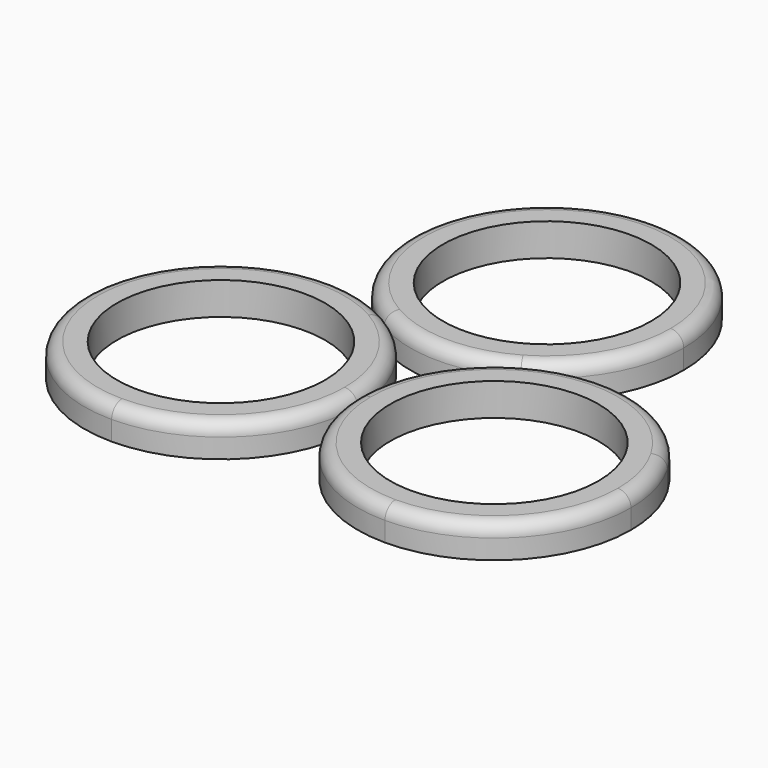
from build123d import *

# Parameters (mm, degrees)
F0_R     = 16
F1_DEPTH = 5
F2_R     = 2
F2_2_R   = 2
F2_3_R   = 2


with BuildPart() as f1:
    # F0 (on Top) → F1 (new body)
    with BuildSketch(Plane.XY):
        with BuildLine():
            ThreePointArc((-42.0000000626, -21), (-27.1507576172, -14.849242427), (-21, 0))
            ThreePointArc((-21, 0), (-23.8134663476, 10.4999997004), (-31.4999994009, 18.1865331336))
            ThreePointArc((-31.4999994009, 18.1865331336), (-47.4351994623, 20.284442482), (-60.1865333234, 10.5000002703))
            ThreePointArc((-60.1865333234, 10.5000002703), (-60.1865335731, -10.4999998378), (-42.0000000626, -21))
        make_face()
        with Locations((-42, 0)):
            Circle(F0_R, mode=Mode.SUBTRACT)
    extrude(amount=F1_DEPTH)

    # F2
    f2_edges = [f1.edges().sort_by_distance(p)[0] for p in [
        (-42, 21, 5),
    ]]
    fillet(f2_edges, radius=F2_R)


with BuildPart() as f1b:
    # F0 (on Top) → F1, piece 2 (new body)
    with BuildSketch(Plane.XY):
        with BuildLine():
            ThreePointArc((-6.26e-08, -21), (14.8492423828, -14.849242427), (21, 0))
            ThreePointArc((21, 0), (20.2844424165, 5.4351997065), (18.1865337286, 10.4999995685))
            ThreePointArc((18.1865337286, 10.4999995685), (5.4352004706, 20.2844422118), (-10.4999994928, 18.1865337723))
            ThreePointArc((-10.4999994928, 18.1865337723), (-18.1865333331, 10.5000002536), (-21, 0))
            ThreePointArc((-21, 0), (-14.849242427, -14.8492423828), (-6.26e-08, -21))
        make_face()
        Circle(F0_R, mode=Mode.SUBTRACT)
    extrude(amount=F1_DEPTH)

    # F2#2
    f2_2_edges = [f1b.edges().sort_by_distance(p)[0] for p in [
        (-18.186534, -10.5, 5),
    ]]
    fillet(f2_2_edges, radius=F2_2_R)


with BuildPart() as f1c:
    # F0 (on Top) → F1, piece 3 (new body)
    with BuildSketch(Plane.XY):
        with BuildLine():
            ThreePointArc((-31.4999994009, 18.1865331336), (-20.9999993613, 15.3730669589), (-10.4999994928, 18.1865337723))
            ThreePointArc((-10.4999994928, 18.1865337723), (-2.8134663741, 25.8730672125), (0, 36.3730669589))
            ThreePointArc((0, 36.3730669589), (-0.7155577531, 41.8082672987), (-2.813466927, 46.873067663))
            ThreePointArc((-2.813466927, 46.873067663), (-21.0000002875, 57.3730669589), (-39.1865333605, 46.8730671651))
            ThreePointArc((-39.1865333605, 46.8730671651), (-41.2844422933, 30.9378667926), (-31.4999994009, 18.1865331336))
        make_face()
        with Locations((-21, 36.3730669589)):
            Circle(F0_R, mode=Mode.SUBTRACT)
    extrude(amount=F1_DEPTH)

    # F2#3
    f2_3_edges = [f1c.edges().sort_by_distance(p)[0] for p in [
        (-10.500001, 54.559601, 5),
    ]]
    fillet(f2_3_edges, radius=F2_3_R)


solid = Compound([f1.part, f1b.part, f1c.part])
